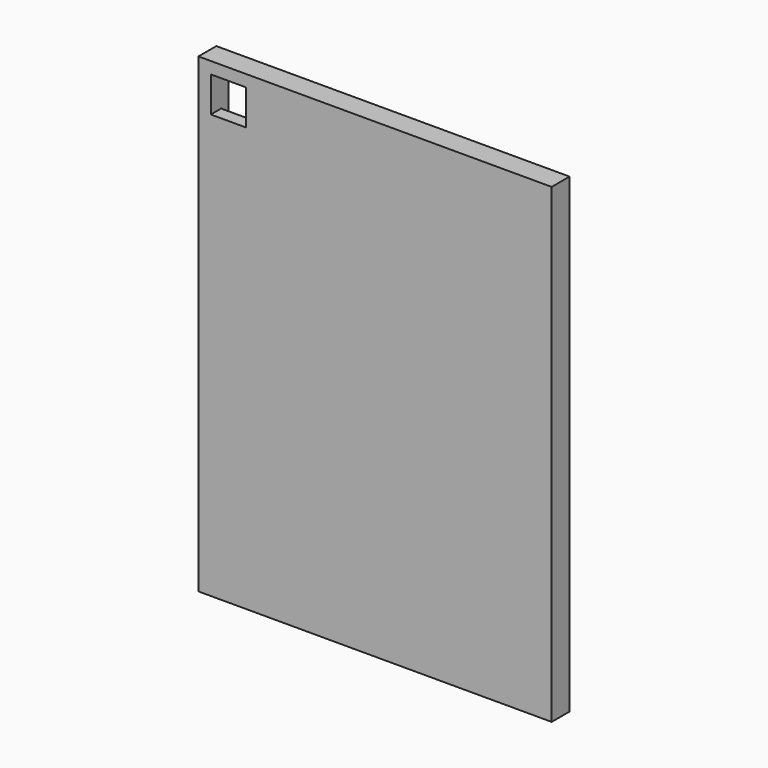
from build123d import *

# Parameters (mm, degrees)
F0_W     = 300
F0_H     = 400
F1_DEPTH = 19
F3_DEPTH = 8
F4_W     = 30
F4_H     = 30
F5_DEPTH = 11


with BuildPart() as f1:
    # F0 (on Front) → F1 (new body)
    with BuildSketch(Plane.XZ):
        with Locations((-14.034653, 10.167784)):
            Rectangle(F0_W, F0_H)
    extrude(amount=F1_DEPTH)

    # F2 (on face) → F3 (cut)
    with BuildSketch(Plane(origin=(0, 0, 0), x_dir=(-1, 0, 0), z_dir=(0, 1, 0))):
        Polygon((-125.465347, 200.167784), (-125.465347, -167.832216), (-95.465347, -167.832216), (-95.465347, 170.167784), (-83.965347, 170.167784), (-83.965347, -167.832216), (-12.465347, -167.832216), (-12.465347, 170.167784), (-0.965347, 170.167784), (-0.965347, -167.832216), (70.534653, -167.832216), (70.534653, 170.167784), (82.034653, 170.167784), (82.034653, -167.832216), (153.534653, -167.832216), (153.534653, 200.167784), (123.534653, 200.167784), (123.534653, -137.832216), (112.034653, -137.832216), (112.034653, 200.167784), (40.534653, 200.167784), (40.534653, -137.832216), (29.034653, -137.832216), (29.034653, 200.167784), (-42.465347, 200.167784), (-42.465347, -137.832216), (-53.965347, -137.832216), (-53.965347, 200.167784), align=None)
    extrude(amount=-F3_DEPTH, mode=Mode.SUBTRACT)

    # F4 (on face) → F5 (cut)
    with BuildSketch(Plane(origin=(0, -8, 0), x_dir=(-1, 0, 0), z_dir=(0, 1, 0))):
        with Locations((138.534653, 185.167784)):
            Rectangle(F4_W, F4_H)
    extrude(amount=-F5_DEPTH, mode=Mode.SUBTRACT)


solid = f1.part
